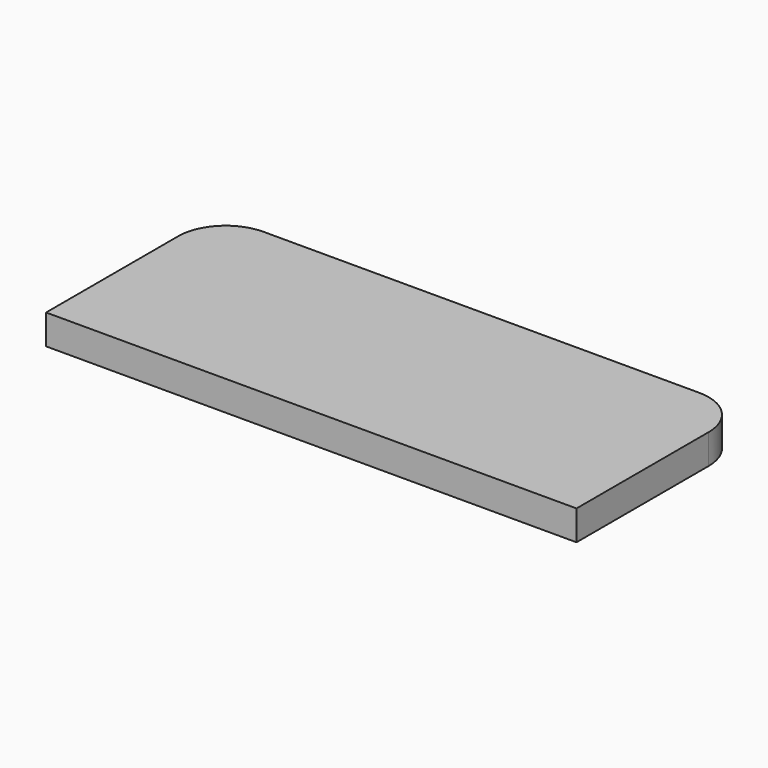
from build123d import *

# Parameters (mm, degrees)
PAD_DEPTH = 5


with BuildPart() as part:
    # Sketch001 → Pad (new body)
    with BuildSketch(Plane.XY):
        with BuildLine():
            Line((-49.954859, 11.774349), (-49.954859, -15.922445))
            Line((-49.954859, -15.922445), (38.945141, -15.922445))
            Line((38.945141, -15.922445), (38.945141, 11.774349))
            ThreePointArc((38.945141, 11.774349), (36.620301, 17.387009), (31.007641, 19.711849))
            Line((31.007641, 19.711849), (-42.017359, 19.711849))
            ThreePointArc((-42.017359, 19.711849), (-47.630019, 17.387009), (-49.954859, 11.774349))
        make_face()
    extrude(amount=PAD_DEPTH)


solid = part.part
